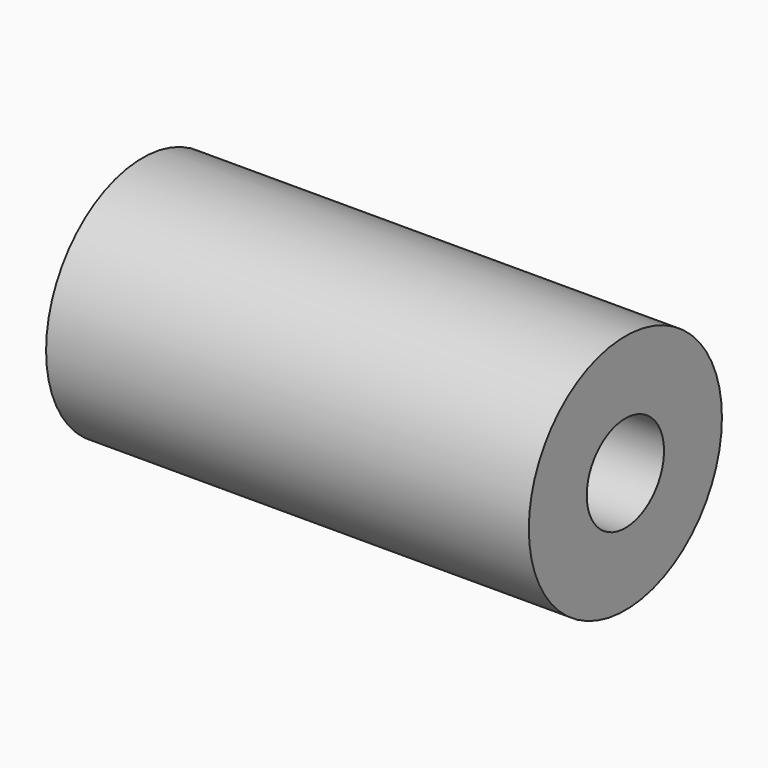
from build123d import *

# Parameters (mm, degrees)
F0_R     = 6.35
F1_DEPTH = 25.4
F3_D     = 5.08


with BuildPart() as f1:
    # F0 (on Right) → F1 (new body)
    with BuildSketch(Plane.YZ):
        Circle(F0_R)
    extrude(amount=F1_DEPTH)

    # F3 (through all)
    with Locations(Plane(origin=(0, 0, 0), x_dir=(0, 1, 0), z_dir=(-1, 0, 0))):
        with Locations((0, 0)):
            Hole(F3_D / 2)


solid = f1.part
